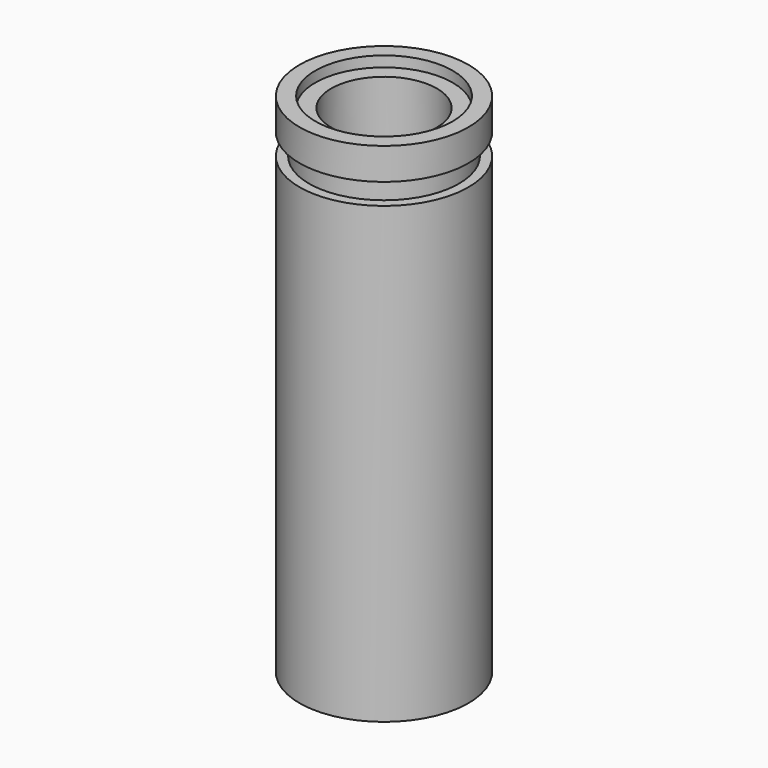
from build123d import *

# Parameters (mm, degrees)
F2_R     = 7.9375
F2_R_2   = 4.7625
F3_DEPTH = 12.7
F4_R     = 10.31875
F4_R_2   = 7.9375
F5_DEPTH = 1.5875


with BuildPart() as f1:
    # F0 (on Right) → F1 (revolve)
    with BuildSketch(Plane.YZ):
        Polygon((12.7, -4.7625), (12.7, 0), (4.7625, 0), (4.7625, -25.4), (0, -25.4), (0, -76.2), (12.7, -76.2), (12.7, -7.9375), (11.265334, -7.9375), (11.265334, -4.7625), align=None)
    revolve(axis=Axis((0, 0, -33.687185), (0, 0, 1)))

    # F2 (on face) → F3 (cut)
    with BuildSketch(Plane.XY):
        Circle(F2_R)
        Circle(F2_R_2, mode=Mode.SUBTRACT)
    extrude(amount=-F3_DEPTH, mode=Mode.SUBTRACT)

    # F4 (on face) → F5 (cut)
    with BuildSketch(Plane.XY):
        Circle(F4_R)
        Circle(F4_R_2, mode=Mode.SUBTRACT)
    extrude(amount=-F5_DEPTH, mode=Mode.SUBTRACT)


solid = f1.part
